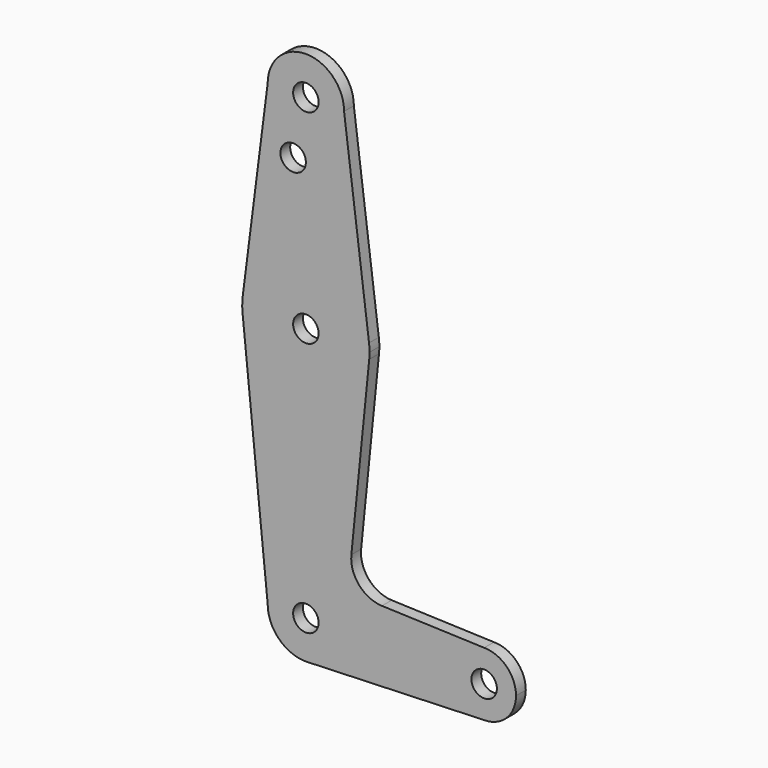
from build123d import *

# Parameters (mm, degrees)
F0_R     = 3.175
F1_DEPTH = 3.048


with BuildPart() as f1:
    # F0 (on Front) → F1 (new body)
    with BuildSketch(Plane.XZ):
        with BuildLine():
            ThreePointArc((15.875, 63.5), (15.843082, 64.506168), (15.747457, 65.508289))
            ThreePointArc((15.747457, 65.508289), (0, 79.375), (-15.747457, 65.508289))
            ThreePointArc((-15.747457, 65.508289), (-15.873668, 63.705667), (-15.794203, 61.90038))
            ThreePointArc((-15.794203, 61.90038), (0.006091, 47.625001), (15.795426, 61.9125))
            ThreePointArc((15.795426, 61.9125), (15.855094, 62.705253), (15.875, 63.5))
        make_face()
        with Locations((0, 63.5)):
            Circle(F0_R, mode=Mode.SUBTRACT)
        with BuildLine():
            ThreePointArc((15.795426, 61.9125), (0.006091, 47.625001), (-15.794203, 61.90038))
            Line((-15.794203, 61.90038), (-9.525, 0))
            ThreePointArc((-9.525, 0), (0, 9.525), (9.525, 0))
            ThreePointArc((9.525, 0), (6.854788, -6.613434), (0.341271, -9.518884))
            Line((0.341271, -9.518884), (44.45, -7.9375))
            ThreePointArc((44.45, -7.9375), (36.5125, 0), (44.45, 7.9375))
            Line((44.45, 7.9375), (18.966474, 8.851134))
            ThreePointArc((18.966474, 8.851134), (13.260686, 11.569571), (11.340972, 17.59125))
            Line((11.340972, 17.59125), (15.795426, 61.9125))
        make_face()
        with BuildLine():
            ThreePointArc((9.525, 0), (0, 9.525), (-9.525, 0))
            ThreePointArc((-9.525, 0), (-6.613434, -6.854788), (0.341271, -9.518884))
            ThreePointArc((0.341271, -9.518884), (6.854788, -6.613434), (9.525, 0))
        make_face()
        Circle(F0_R, mode=Mode.SUBTRACT)
        with BuildLine():
            Line((15.747457, 65.508289), (9.525, 114.3))
            ThreePointArc((9.525, 114.3), (0, 104.775), (-9.525, 114.3))
            Line((-9.525, 114.3), (-15.747457, 65.508289))
            ThreePointArc((-15.747457, 65.508289), (0, 79.375), (15.747457, 65.508289))
        make_face()
        with Locations((-3.175, 100.0252)):
            Circle(F0_R, mode=Mode.SUBTRACT)
        with BuildLine():
            ThreePointArc((-9.525, 114.3), (0, 104.775), (9.525, 114.3))
            ThreePointArc((9.525, 114.3), (0, 123.825), (-9.525, 114.3))
        make_face()
        with Locations((0, 114.3)):
            Circle(F0_R, mode=Mode.SUBTRACT)
        with BuildLine():
            ThreePointArc((44.45, 7.9375), (36.5125, 0), (44.45, -7.9375))
            ThreePointArc((44.45, -7.9375), (50.06266, -5.61266), (52.3875, 0))
            ThreePointArc((52.3875, 0), (50.06266, 5.61266), (44.45, 7.9375))
        make_face()
        with Locations((44.45, 0)):
            Circle(F0_R, mode=Mode.SUBTRACT)
    extrude(amount=F1_DEPTH)


solid = f1.part
